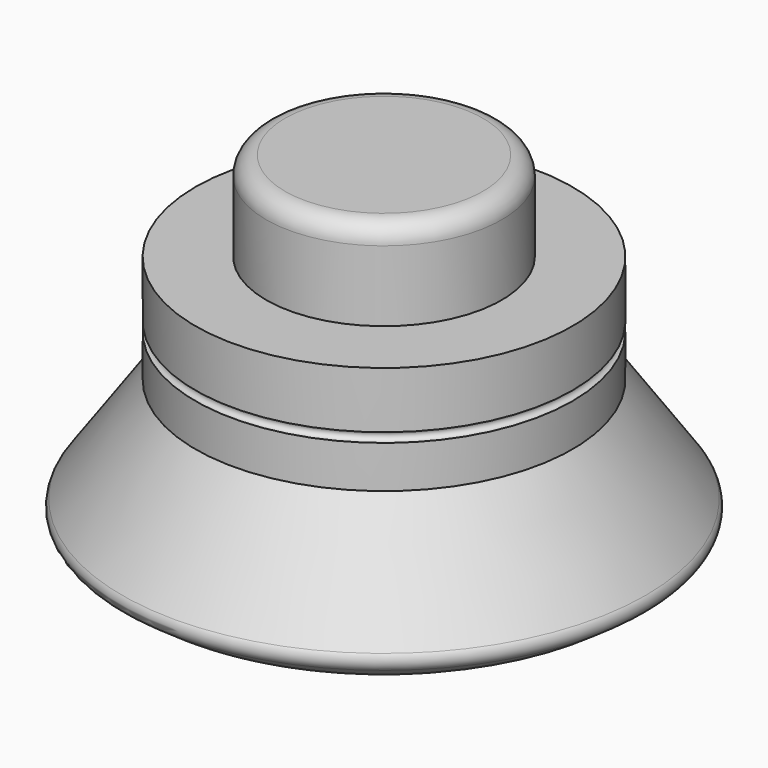
from build123d import *

# Parameters (mm, degrees)
SKETCH001_W     = 3.4
SKETCH001_H     = 4.2
POCKET_DEPTH    = 5
POCKET001_DEPTH = 1.3


with BuildPart() as part:
    # Sketch → Revolution (revolve)
    with BuildSketch(Plane.XZ):
        with BuildLine():
            Line((0, 1.9), (-2.1, 1.9))
            ThreePointArc((-2.1, 1.9), (-2.382843, 1.782843), (-2.5, 1.5))
            Line((-2.5, 1.5), (-2.5, 0))
            Line((-2.5, 0), (-4, 0))
            Line((-4, 0), (-4, -1.2))
            ThreePointArc((-4, -1.4), (-3.9, -1.3), (-4, -1.2))
            Line((-4, -1.4), (-4, -2.3))
            Line((-4, -2.3), (-5.555606, -4.521636))
            ThreePointArc((-5.555606, -4.521636), (-5.59702, -4.708442), (-5.494212, -4.869818))
            Line((-5.494212, -4.869818), (-5.084636, -5.156606))
            ThreePointArc((-5.084636, -5.156606), (-4.89783, -5.19802), (-4.736454, -5.095212))
            Line((-4.736454, -5.095212), (-2.919267, -2.5))
            Line((-2.919267, -2.5), (0, -2.5))
            Line((0, -2.5), (0, 1.9))
        make_face()
    revolve(axis=Axis((0, 0, 0), (0, 0, 1)))

    # Sketch001 → Pocket (cut)
    with BuildSketch(Plane.XY.offset(-1.5)):
        Rectangle(SKETCH001_W, SKETCH001_H)
    extrude(amount=-POCKET_DEPTH, mode=Mode.SUBTRACT)

    # Sketch002 → Pocket001 (cut)
    with BuildSketch(Plane.XY.offset(-0.4)):
        Polygon((-4.3, 1.6), (-4.3, -1.6), (0.7, -1.6), (0.7, -1.1), (1.2, -1.1), (1.2, 1.1), (0.7, 1.1), (0.7, 1.6), align=None)
    extrude(amount=-POCKET001_DEPTH, mode=Mode.SUBTRACT)


solid = part.part
